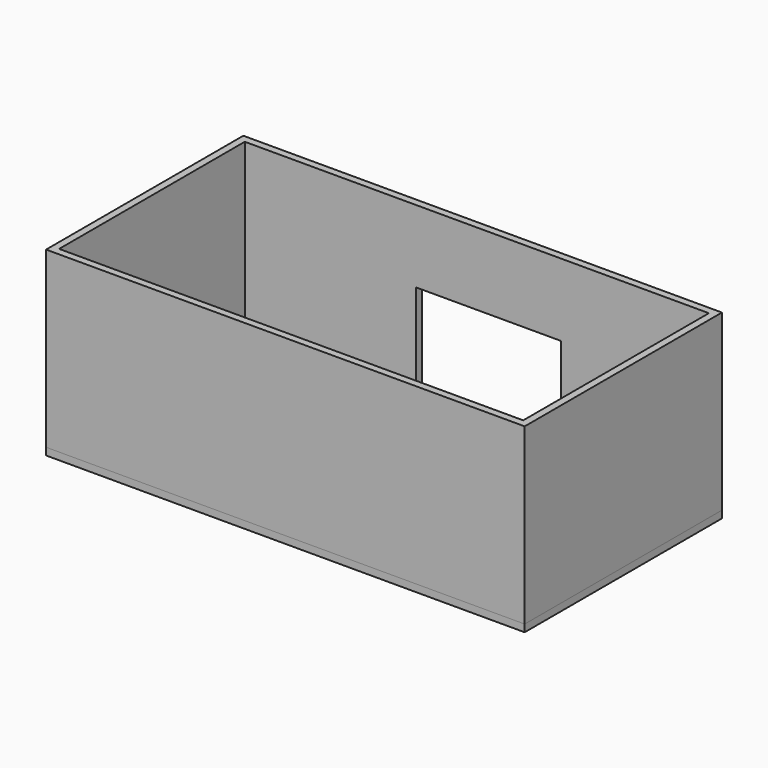
from build123d import *

# Parameters (mm, degrees)
F0_W     = 3048
F0_H     = 152.4
F0_W_2   = 152.4
F0_H_2   = 914.4
F1_DEPTH = 3657.6
F2_DEPTH = 2133.6
F3_W     = 10058.4
F3_H     = 5181.6
F4_DEPTH = 152.4


with BuildPart() as f1:
    # F0 (on Top) → F1 (new body)
    with BuildSketch(Plane.XY):
        Polygon((-2518.320339, 738.170896), (-2518.320339, 3830.268445), (1084.585428, 3830.268445), (1084.585428, 3982.668445), (-2670.720339, 3982.668445), (-2670.720339, 738.170896), align=None)
        with Locations((2608.585428, 3906.468445)):
            Rectangle(F0_W, F0_H)
        with Locations((-2594.520339, 280.970896)):
            Rectangle(F0_W_2, F0_H_2)
        Polygon((4132.585428, 3982.668445), (4132.585428, 3830.268445), (7235.279661, 3830.268445), (7235.279661, -1046.531555), (-2518.320339, -1046.531555), (-2518.320339, -176.229104), (-2670.720339, -176.229104), (-2670.720339, -1198.931555), (7387.679661, -1198.931555), (7387.679661, 3982.668445), align=None)
    extrude(amount=F1_DEPTH)

    # F0 (on Top) → F2 (cut)
    with BuildSketch(Plane.XY):
        with Locations((2608.585428, 3906.468445)):
            Rectangle(F0_W, F0_H)
        with Locations((-2594.520339, 280.970896)):
            Rectangle(F0_W_2, F0_H_2)
    extrude(amount=F2_DEPTH, mode=Mode.SUBTRACT)


with BuildPart() as f4:
    # F3 (on face) → F4 (new body)
    with BuildSketch(Plane(origin=(0, 0, 0), x_dir=(1, 0, 0), z_dir=(0, 0, -1))):
        with Locations((2358.479661, -1391.868445)):
            Rectangle(F3_W, F3_H)
    extrude(amount=F4_DEPTH)


solid = Compound([f1.part, f4.part])
